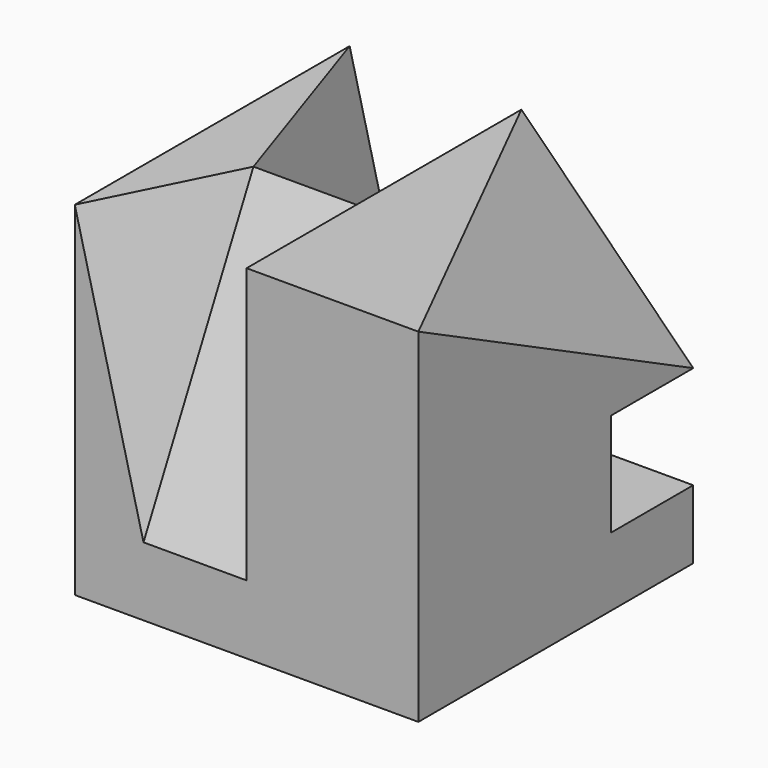
from build123d import *

# Parameters (mm, degrees)
F0_W      = 50
F0_H      = 50
F1_DEPTH  = 50
F6_W      = 15
F6_H      = 53.66563146
F7_DEPTH  = 17.88954382
F11_W     = 15
F11_H     = 58
F12_DEPTH = 24.001
F17_DEPTH = 16.6676666667
F20_DEPTH = 8.7297156094
F23_DEPTH = 9.2317692308
F27_W     = 15
F27_H     = 15
F28_DEPTH = 20


with BuildPart() as f1:
    # F0 (on Top) → F1 (new body)
    with BuildSketch(Plane.XY):
        with Locations((25, 25)):
            Rectangle(F0_W, F0_H)
    extrude(amount=F1_DEPTH)

    # F6 (on 3pt) → F7 (cut, through all)
    with BuildSketch(Plane(origin=(0, -4, 2), x_dir=(1, 0, 0), z_dir=(0, -0.894427191, 0.4472135955))):
        with Locations((17.5, 26.83281573)):
            Rectangle(F6_W, F6_H)
    extrude(amount=F7_DEPTH, mode=Mode.SUBTRACT)

    # F11 (on 3pt) → F12 (cut, through all)
    with BuildSketch(Plane(origin=(0, 36.8, 27.6), x_dir=(-1, 0, 0), z_dir=(0, 0.8, 0.6))):
        with Locations((-17.5, -1)):
            Rectangle(F11_W, F11_H)
    extrude(amount=F12_DEPTH, mode=Mode.SUBTRACT)

    # F16 (on 3pt) → F17 (cut, through all)
    with BuildSketch(Plane(origin=(44.4444444444, 22.2222222222, 44.4444444444), x_dir=(-0.2357022604, 0.9428090416, -0.2357022604), z_dir=(0.6666666667, 0.3333333333, 0.6666666667))):
        Polygon((29.4627825494, 17.6776695297), (-23.5702260396, 0), (29.4627825494, -17.6776695297), align=None)
    extrude(amount=F17_DEPTH, mode=Mode.SUBTRACT)

    # F19 (on 3pt) → F20 (cut, through all)
    with BuildSketch(Plane(origin=(9.5238095238, -4.7619047619, 2.380952381), x_dir=(-0.4234048992, -0.8997354108, -0.1058512248), z_dir=(-0.8728715609, 0.4364357805, -0.2182178902))):
        Polygon((-5.2925612402, 7.2760687511), (-5.2925612402, 48.5071250073), (-27.5213184493, 46.0817687569), align=None)
    extrude(amount=-F20_DEPTH, mode=Mode.SUBTRACT)

    # F22 (on 3pt) → F23 (cut, through all)
    with BuildSketch(Plane(origin=(24.8520710059, 8.2840236686, 6.2130177515), x_dir=(-0.2985053847, 0.9514859136, -0.0746263462), z_dir=(0.9230769231, 0.3076923077, 0.2307692308))):
        Polygon((43.842978372, 48.5071250073), (12.3133471172, 46.0817687569), (43.842978372, 7.2760687511), align=None)
    extrude(amount=F23_DEPTH, mode=Mode.SUBTRACT)

    # F27 (on 3pt) → F28 (cut, through all)
    with BuildSketch(Plane.YZ.offset(30)):
        with Locations((42.5, 17.5)):
            Rectangle(F27_W, F27_H)
    extrude(amount=F28_DEPTH, mode=Mode.SUBTRACT)


solid = f1.part
